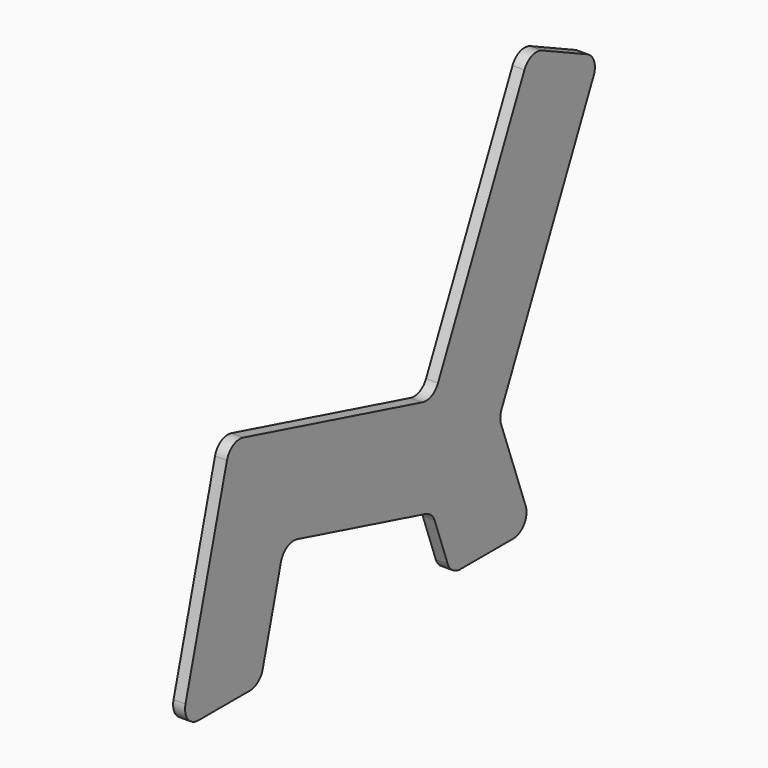
from build123d import *

# Parameters (mm, degrees)
F2_DEPTH = 25
F3_R     = 35


with BuildPart() as f2:
    # F1 (on offset) → F2 (new body)
    with BuildSketch(Plane.YZ.offset(-400)):
        Polygon((129.409523, 482.962913), (0, 0), (207.055236, 0), (270.830879, 238.013939), (658.204018, 134.217619), (707.055236, 0), (919.890791, 0), (833.366468, 237.723622), (1095.501241, 799.873458), (914.239684, 884.397111), (660.668727, 340.612438), align=None)
    extrude(amount=F2_DEPTH)

    # F3
    f3_edges = [f2.edges().sort_by_distance(p)[0] for p in [
        (-387.5, 129.409523, 482.962913),
        (-387.5, 660.668727, 340.612438),
        (-387.5, 914.239684, 884.397111),
        (-387.5, 1095.501241, 799.873458),
        (-387.5, 270.830879, 238.013939),
        (-387.5, 658.204018, 134.217619),
        (-387.5, 0, 0),
        (-387.5, 207.055236, 0),
        (-387.5, 707.055236, 0),
        (-387.5, 919.890791, 0),
        (-387.5, 833.366468, 237.723622),
    ]]
    fillet(f3_edges, radius=F3_R)


solid = f2.part
